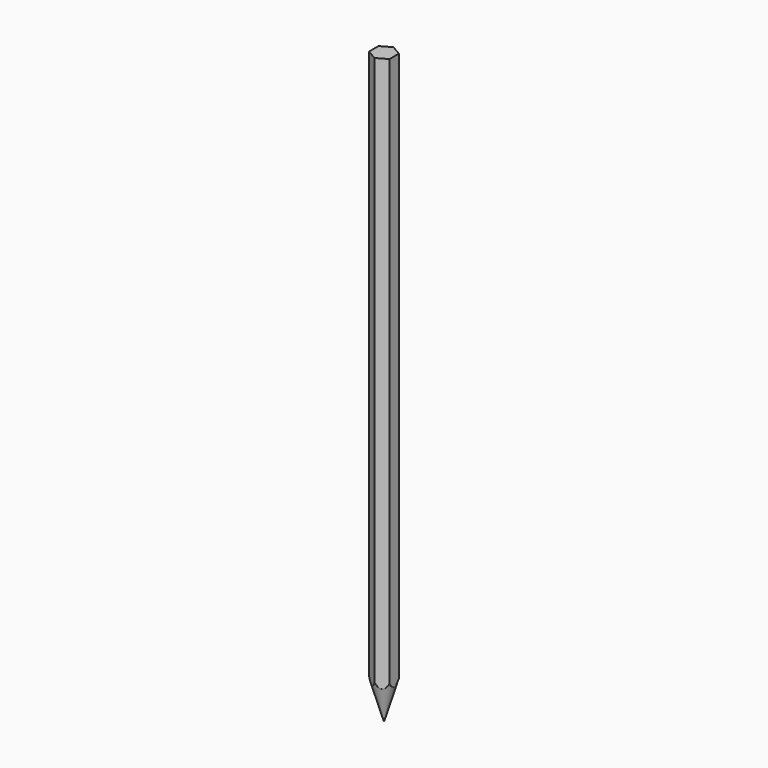
from build123d import *

# Parameters (mm, degrees)
F1_DEPTH = 150
F7_R     = 57.47


with BuildPart() as f1:
    # F0 (on Top) → F1 (new body)
    with BuildSketch(Plane.XY):
        Polygon((2.5980762114, 1.5), (0, 3), (-2.5980762114, 1.5), (-2.5980762114, -1.5), (0, -3), (2.5980762114, -1.5), align=None)
    extrude(amount=F1_DEPTH)

    # F7 (on line) → F8 section 0
    with BuildSketch(Plane.XY.offset(191.5652570442), mode=Mode.PRIVATE) as f8_s0:
        Circle(F7_R)
    loft([f8_s0.sketch, Vertex(0, 0, 0)], mode=Mode.INTERSECT)


solid = f1.part
